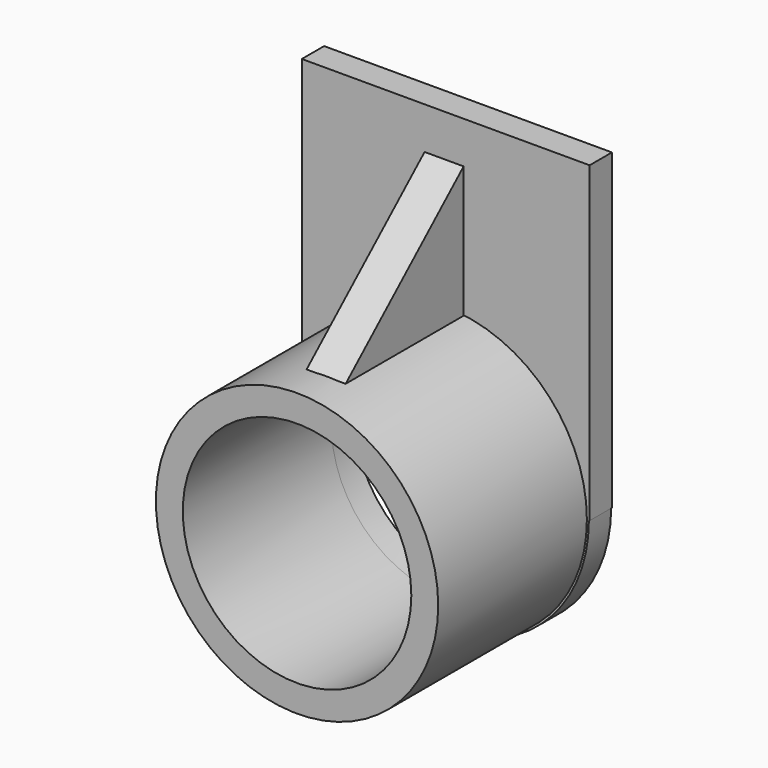
from build123d import *

# Parameters (mm, degrees)
F1_DEPTH = 7.62
F2_R     = 38.5887386993
F2_R_2   = 31.2378777005
F3_DEPTH = 50.8
F4_W     = 40.311823599
F4_H     = 35.9383700415
F5_DEPTH = 5.334
F7_DEPTH = 44.6695281482


with BuildPart() as f1:
    # F0 (on Front) → F1 (new body)
    with BuildSketch(Plane.XZ):
        with BuildLine():
            Line((39.3345281482, -13.8564798981), (39.3345281482, 42.7613966167))
            Line((39.3345281482, 42.7613966167), (-39.3345281482, 42.7613966167))
            Line((-39.3345281482, 42.7613966167), (-39.3345281482, -13.8564798981))
            Line((-39.3345281482, -13.8564798981), (-39.3345281482, -42.7613966167))
            Line((-39.3345281482, -42.7613966167), (-39.1348331809, -42.7613966167))
            ThreePointArc((-39.1348331809, -42.7613966167), (0, -3.6265634358), (39.1348331809, -42.7613966167))
            Line((39.1348331809, -42.7613966167), (39.3345281482, -42.7613966167))
            Line((39.3345281482, -42.7613966167), (39.3345281482, -13.8564798981))
        make_face()
        with BuildLine():
            ThreePointArc((-39.1348331809, -42.7613966167), (0, -81.8962297976), (39.1348331809, -42.7613966167))
            Line((39.1348331809, -42.7613966167), (31.2378777005, -42.7613966167))
            ThreePointArc((31.2378777005, -42.7613966167), (0, -73.9992743172), (-31.2378777005, -42.7613966167))
            Line((-31.2378777005, -42.7613966167), (-39.1348331809, -42.7613966167))
        make_face()
        with BuildLine():
            Line((31.2378777005, -42.7613966167), (39.1348331809, -42.7613966167))
            ThreePointArc((39.1348331809, -42.7613966167), (0, -3.6265634358), (-39.1348331809, -42.7613966167))
            Line((-39.1348331809, -42.7613966167), (-31.2378777005, -42.7613966167))
            ThreePointArc((-31.2378777005, -42.7613966167), (0, -11.5235189162), (31.2378777005, -42.7613966167))
        make_face()
    extrude(amount=F1_DEPTH)

    # F2 (on face) → F3 (join)
    with BuildSketch(Plane.XZ.offset(7.62)):
        with Locations((0, -42.7613966167)):
            Circle(F2_R)
        with Locations((0, -42.7613966167)):
            Circle(F2_R_2, mode=Mode.SUBTRACT)
    extrude(amount=F3_DEPTH)

    # F4 (on Right) → F5 (join, symmetric)
    with BuildSketch(Plane.YZ):
        with Locations((-28.3323661424, 13.6949443258)):
            Rectangle(F4_W, F4_H)
    extrude(amount=F5_DEPTH, both=True)

    # F6 (on face) → F7 (cut, through all)
    with BuildSketch(Plane.YZ.offset(5.334)):
        Polygon((-48.4882779419, 31.6641293466), (-48.4882779419, -4.2742406949), (-8.1764543429, 31.6641293466), align=None)
    extrude(amount=-F7_DEPTH, mode=Mode.SUBTRACT)


solid = f1.part
